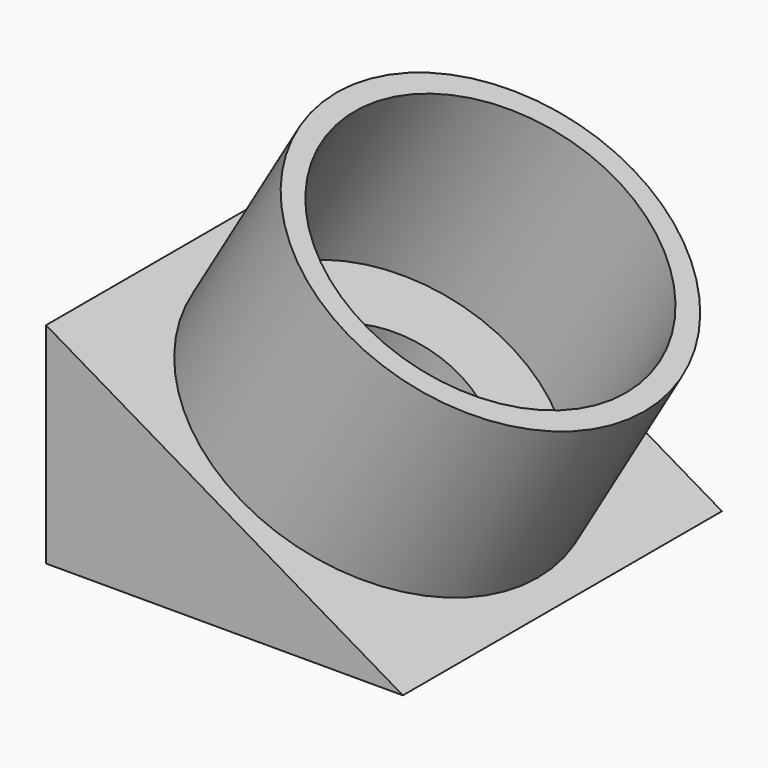
from build123d import *

# Parameters (mm, degrees)
F1_DEPTH = 19
F3_D     = 9
F3_DEPTH = 30
F2_R     = 8.5
F2_R_2   = 7.5
F4_DEPTH = 10


with BuildPart() as f1:
    # F0 (on Front) → F1 (new body)
    with BuildSketch(Plane.XZ):
        Polygon((0, 10), (0, 0), (17, 0), align=None)
    extrude(amount=F1_DEPTH)

    # F3
    with Locations(Plane(origin=(4.37018, 0, 7.429306), x_dir=(0.861934, 0, -0.50702), z_dir=(0.50702, 0, 0.861934))):
        with Locations((4.79134, -9.5)):
            Hole(F3_D / 2, depth=F3_DEPTH)

    # F2 (on face) → F4 (join)
    with BuildSketch(Plane(origin=(4.37018, 0, 7.429306), x_dir=(0.861934, 0, -0.50702), z_dir=(0.50702, 0, 0.861934))):
        with Locations((4.79134, -9.5)):
            Circle(F2_R)
        with Locations((4.79134, -9.5)):
            Circle(F2_R_2, mode=Mode.SUBTRACT)
    extrude(amount=F4_DEPTH)


solid = f1.part
